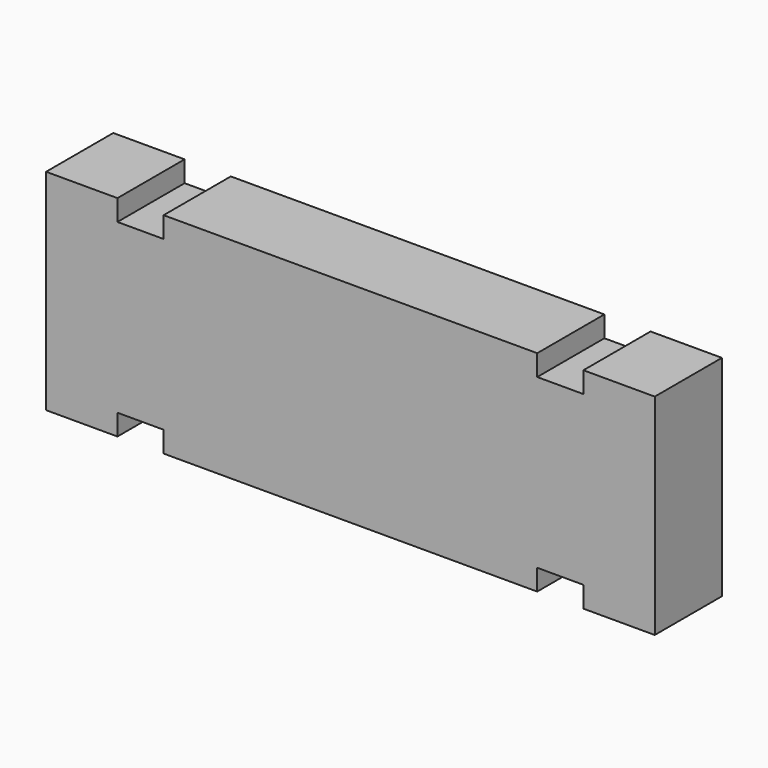
from build123d import *

# Parameters (mm, degrees)
F1_DEPTH = 40


with BuildPart() as f1:
    # F0 (on Front) → F1 (new body)
    with BuildSketch(Plane.XZ):
        Polygon((111, -50), (145, -50), (145, 50), (111, 50), (111, 40), (89, 40), (89, 50), (0, 50), (-89, 50), (-89, 40), (-111, 40), (-111, 50), (-128.898188, 50), (-134.427339, 50), (-138.919771, 50), (-145, 50), (-145, -50), (-111, -50), (-111, -40), (-89, -40), (-89, -50), (0, -50), (89, -50), (89, -40), (111, -40), align=None)
    extrude(amount=F1_DEPTH)


solid = f1.part
